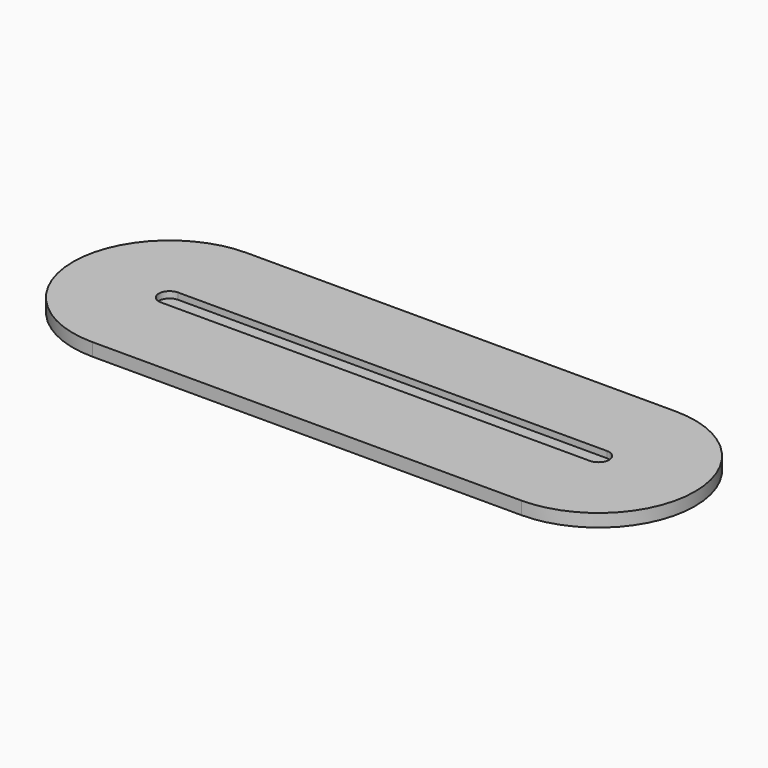
from build123d import *

# Parameters (mm, degrees)
PAD_DEPTH    = 3
PAD001_DEPTH = 3


with BuildPart() as part:
    # Sketch → Pad (new body)
    with BuildSketch(Plane.XY):
        with BuildLine():
            ThreePointArc((-100, 45), (-145, 0), (-100, -45))
            Line((-100, -45), (100, -45))
            ThreePointArc((100, -45), (145, 0), (100, 45))
            Line((-100, 45), (100, 45))
        make_face()
    extrude(amount=PAD_DEPTH)

    # Sketch001 (on Face6 of Pad) → Pad001 (join)
    with BuildSketch(Plane.XY.offset(3)):
        with BuildLine():
            ThreePointArc((-100, 45), (-145, 0), (-100, -45))
            Line((-100, -45), (100, -45))
            ThreePointArc((100, -45), (145, 0), (100, 45))
            Line((-100, 45), (100, 45))
        make_face()
        with BuildLine():
            ThreePointArc((-100, 5), (-105, 0), (-100, -5))
            Line((-100, -5), (100, -5))
            ThreePointArc((100, -5), (105, 0), (100, 5))
            Line((-100, 5), (100, 5))
        make_face(mode=Mode.SUBTRACT)
    extrude(amount=PAD001_DEPTH)


solid = part.part
